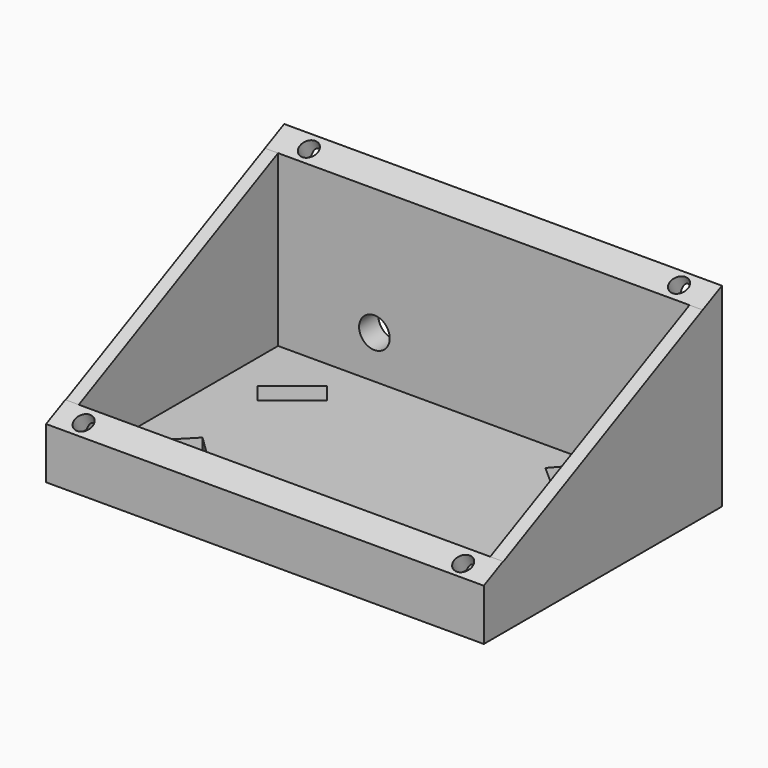
from build123d import *

# Parameters (mm, degrees)
EXTRUDE006_DEPTH                          = 7.5
SKETCH004_R                               = 3.5
EXTRUDE005_DEPTH                          = 10
SKETCH003_AS_DRAWN_R                      = 2.05
EXTRUDE004_DEPTH                          = 4
EXTRUDE004_ONTO_SKETCH003_PLACEMENT_ANGLE = 25.679232
SKETCH002_AS_DRAWN_R                      = 2.05
EXTRUDE003_DEPTH                          = 4
EXTRUDE003_ONTO_SKETCH002_PLACEMENT_ANGLE = 25.679232
EXTRUDE002_DEPTH                          = 3
EXTRUDE001_DEPTH                          = 3
EXTRUDE_DEPTH                             = 100


with BuildPart() as extrude006:
    # Sketch005 (on Face9 of Cut002) → Extrude006 (new body, symmetric)
    with BuildSketch(Plane.XY.offset(-2.969462)):
        Polygon((9.788822, -17.287546), (13.381697, -21.769908), (23.066011, -14.007366), (19.473136, -9.525003), align=None)
        Polygon((74.935691, -52.555563), (78.706554, -57.139857), (89.207015, -48.502584), (85.436152, -43.91829), align=None)
        Polygon((9.274179, -44.439739), (14.585862, -39.004322), (26.329694, -50.48081), (21.018012, -55.916228), align=None)
        Polygon((69.684992, -9.981081), (73.170384, -6.034964), (84.857305, -16.35739), (81.371913, -20.303507), align=None)
    extrude(amount=EXTRUDE006_DEPTH, both=True)


with BuildPart() as extrude005:
    # Sketch004 (on Face13 of Cut001) → Extrude005 (new body, symmetric)
    with BuildSketch(Plane(origin=(0, 2.547184, 0), x_dir=(-1, 0, 0), z_dir=(0, 1, 0))):
        with Locations((-25.011261, 6.853597)):
            Circle(SKETCH004_R)
    extrude(amount=EXTRUDE005_DEPTH, both=True)


with BuildPart() as extrude004:
    # Sketch003 as drawn → Extrude004 (new)
    with BuildSketch(Plane.XY):
        with Locations((6.469403, -53.574993)):
            Circle(SKETCH003_AS_DRAWN_R)
        with Locations((93.253448, -53.665895)):
            Circle(SKETCH003_AS_DRAWN_R)
    extrude(amount=-EXTRUDE004_DEPTH)


with BuildPart() as extrude004_1:
    # Extrude004 onto Sketch003 placement: moved
    add(extrude004.part.moved(Location((0, -14.53972, 30.239351))).rotate(Axis((0, -14.53972, 30.239351), (1, 0, 0)), EXTRUDE004_ONTO_SKETCH003_PLACEMENT_ANGLE))


with BuildPart() as extrude003:
    # Sketch002 as drawn → Extrude003 (new)
    with BuildSketch(Plane.XY):
        with Locations((7.867664, 15.865227)):
            Circle(SKETCH002_AS_DRAWN_R)
        with Locations((92.333176, 15.993219)):
            Circle(SKETCH002_AS_DRAWN_R)
    extrude(amount=-EXTRUDE003_DEPTH)


with BuildPart() as extrude003_1:
    # Extrude003 onto Sketch002 placement: moved
    add(extrude003.part.moved(Location((0, -14.53972, 30.239351))).rotate(Axis((0, -14.53972, 30.239351), (1, 0, 0)), EXTRUDE003_ONTO_SKETCH002_PLACEMENT_ANGLE))


with BuildPart() as extrude002:
    # Sketch001 → Extrude002 (new body)
    with BuildSketch(Plane.YZ):
        Polygon((-59.93153, 8.316114), (-59.93153, -2.969465), (-2.952637, -2.969465), (-2.952637, 35.810581), align=None)
    extrude(amount=EXTRUDE002_DEPTH)


with BuildPart() as extrude002_1:
    # Extrude002 placement: moved
    add(extrude002.part.moved(Location((97, 0, 0))))


with BuildPart() as extrude001:
    # Sketch001 → Extrude001 (new body)
    with BuildSketch(Plane.YZ):
        Polygon((-59.93153, 8.316114), (-59.93153, -2.969465), (-2.952637, -2.969465), (-2.952637, 35.810581), align=None)
    extrude(amount=EXTRUDE001_DEPTH)


with BuildPart() as caja:
    # Sketch → Extrude (new body)
    with BuildSketch(Plane.YZ):
        Polygon((-65.452816, 5.759257), (-65.452816, -5.969462), (2.547184, -5.969462), (2.547184, 38.455096), (-2.952816, 35.81058), (-2.952816, -2.969462), (-59.952816, -2.969462), (-59.952816, 8.403773), align=None)
    extrude(amount=EXTRUDE_DEPTH)

    # Fusion: union Extrude002, Extrude001
    add(extrude002_1.part)
    add(extrude001.part)

    # Cut: cut Extrude003
    add(extrude003_1.part, mode=Mode.SUBTRACT)

    # Cut001: cut Extrude004
    add(extrude004_1.part, mode=Mode.SUBTRACT)

    # Cut002: cut Extrude005
    add(extrude005.part, mode=Mode.SUBTRACT)

    # Cut003: cut Extrude006
    add(extrude006.part, mode=Mode.SUBTRACT)


solid = caja.part
